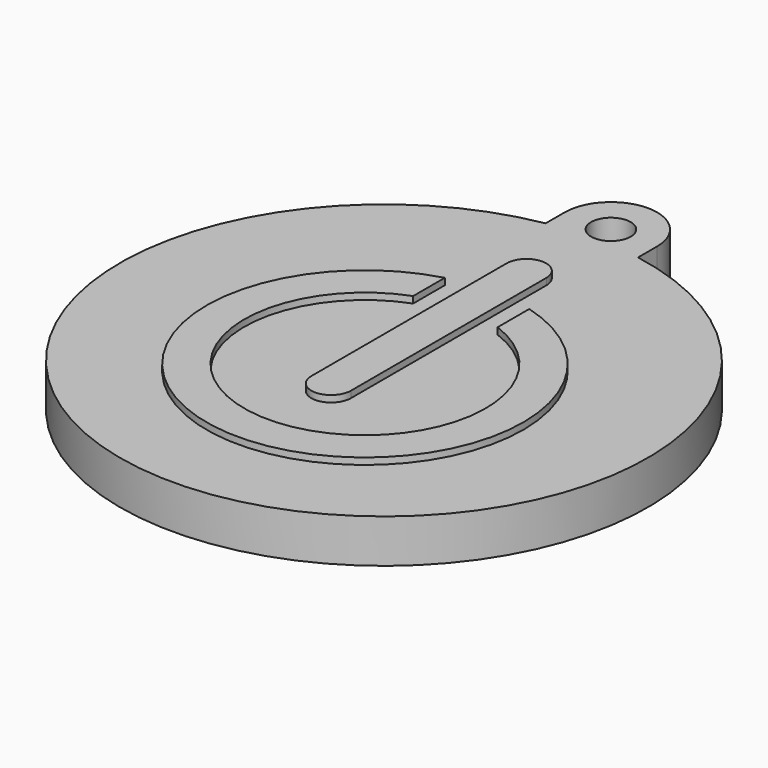
from build123d import *

# Parameters (mm, degrees)
EXTRUDE_DEPTH = 3.3
SKETCH001_R   = 1.5
POCKET_DEPTH  = 3.301
PAD_DEPTH     = 0.5


with BuildPart() as part:
    # Sketch → Extrude (new body)
    with BuildSketch(Plane.XY):
        with BuildLine():
            ThreePointArc((3.5, 21.5), (0, 25), (-3.5, 21.5))
            Line((-3.5, 21.5), (-3.5, 19.691369))
            ThreePointArc((-3.5, 19.691369), (0, -20), (3.5, 19.691369))
            Line((3.5, 19.691369), (3.5, 21.5))
        make_face()
    extrude(amount=EXTRUDE_DEPTH)

    # Sketch001 → Pocket (cut, through all)
    with BuildSketch(Plane.XY.offset(3.3)):
        with Locations((0, 21.5)):
            Circle(SKETCH001_R)
    extrude(amount=-POCKET_DEPTH, mode=Mode.SUBTRACT)

    # Sketch002 → Pad (new body)
    with BuildSketch(Plane.XY.offset(3.3)):
        with BuildLine():
            Line((-1.5, 13.5), (-1.5, -5))
            ThreePointArc((-1.5, -5), (0, -6.5), (1.5, -5))
            Line((1.5, 13.5), (1.5, -5))
            ThreePointArc((1.5, 13.5), (0, 15), (-1.5, 13.5))
        make_face()
        with BuildLine():
            ThreePointArc((-3.2, 9.765466), (0, -13.8), (3.2, 9.765466))
            Line((3.2, 9.765466), (3.2, 6.765466))
            ThreePointArc((-3.2, 6.765466), (0, -10.943698), (3.2, 6.765466))
            Line((-3.2, 9.765466), (-3.2, 6.765466))
        make_face()
    extrude(amount=PAD_DEPTH)


solid = part.part
